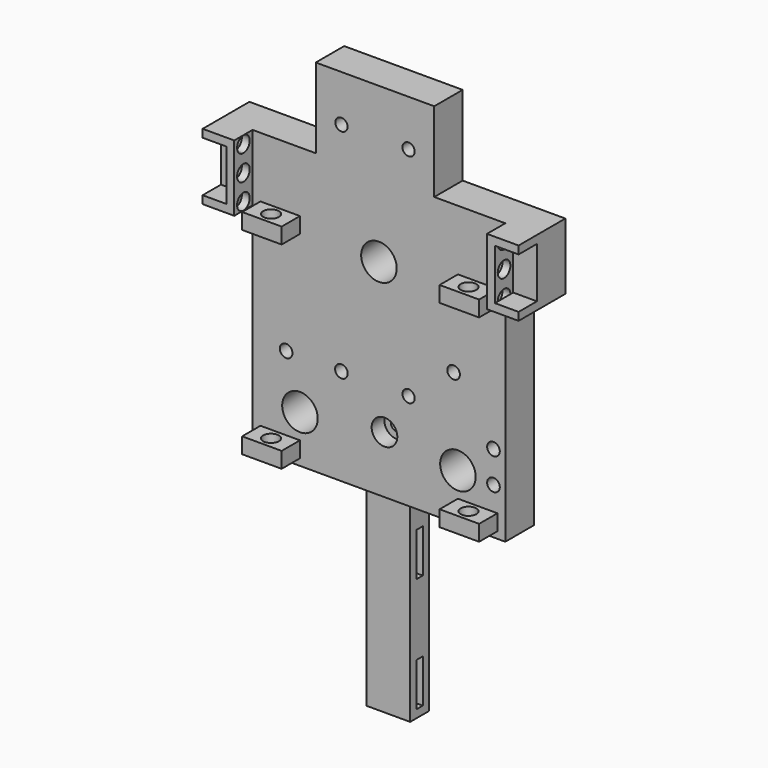
from build123d import *

# Parameters (mm, degrees)
SKETCH022_W            = 64
SKETCH022_H            = 64
PAD020_DEPTH           = 9
SKETCH023_R            = 1.6
POCKET003_DEPTH        = 9
SKETCH024_R            = 1.6
POCKET004_DEPTH        = 9
SKETCH025_R            = 3
POCKET005_DEPTH        = 5.5
SKETCH026_R            = 4.5
POCKET006_DEPTH        = 9
SKETCH030_R            = 1.55
POCKET009_DEPTH        = 9
SKETCH031_W            = 30
SKETCH031_H            = 27.227398
PAD022_DEPTH           = 9
SKETCH032_R            = 1.55
POCKET010_DEPTH        = 9
SKETCH066_W            = 16.8
SKETCH066_H            = 9
PAD040_DEPTH           = 8
PAD040_FACE8_W         = 9
PAD040_FACE8_H         = 16
PAD041_DEPTH           = 7
MIRRORED_FACE11_W      = 9
MIRRORED_FACE11_H      = 18
PAD042_DEPTH           = 7
PAD043_DEPTH           = 5.8
SKETCH068_R            = 2
POCKET027_DEPTH        = 5
LINEARPATTERN_COUNT    = 3
LINEARPATTERN_PITCH    = 6.4
SKETCH069_R            = 2
POCKET028_DEPTH        = 5
LINEARPATTERN001_COUNT = 3
LINEARPATTERN001_PITCH = 6.4
SKETCH071_W            = 10
SKETCH071_H            = 4
PAD044_DEPTH           = 5.8
SKETCH073_R            = 2
POCKET029_DEPTH        = 100
SKETCH074_W            = 11
SKETCH074_H            = 6
PAD045_DEPTH           = 50
SKETCH075_W            = 11
SKETCH075_H            = 2
POCKET030_DEPTH        = 12
SKETCH076_R            = 1.6
POCKET031_DEPTH        = 10
SKETCH083_R            = 3.25
POCKET035_DEPTH        = 4


with BuildPart() as part:
    # Sketch022 → Pad020 (new body)
    with BuildSketch(Plane.XZ):
        Rectangle(SKETCH022_W, SKETCH022_H)
    extrude(amount=PAD020_DEPTH)

    # Sketch023 (on Face5 of Pad020) → Pocket003 (cut)
    with BuildSketch(Plane(origin=(0, 0, 0), x_dir=(1, 0, 0), z_dir=(0, 1, 0))):
        with Locations((-9.5, 7.5)):
            Circle(SKETCH023_R)
        with Locations((-23.5, 7.5)):
            Circle(SKETCH023_R)
    extrude(amount=-POCKET003_DEPTH, mode=Mode.SUBTRACT)

    # Sketch024 (on Face4 of Pocket003) → Pocket004 (cut)
    with BuildSketch(Plane(origin=(0, 0, 0), x_dir=(1, 0, 0), z_dir=(0, 1, 0))):
        with Locations((1.4, 17.5)):
            Circle(SKETCH024_R)
        with Locations((18.9, -1.5)):
            Circle(SKETCH024_R)
    extrude(amount=-POCKET004_DEPTH, mode=Mode.SUBTRACT)

    # Sketch025 (on Face4 of Pocket004) → Pocket005 (cut)
    with BuildSketch(Plane(origin=(0, 0, 0), x_dir=(1, 0, 0), z_dir=(0, 1, 0))):
        with Locations((-23.5, 7.5)):
            Circle(SKETCH025_R)
        with Locations((-9.5, 7.5)):
            Circle(SKETCH025_R)
    extrude(amount=-POCKET005_DEPTH, mode=Mode.SUBTRACT)

    # Sketch026 (on Face4 of Pocket005) → Pocket006 (cut)
    with BuildSketch(Plane(origin=(0, 0, 0), x_dir=(1, 0, 0), z_dir=(0, 1, 0))):
        with Locations((0, -20)):
            Circle(SKETCH026_R)
        with Locations((20, 20)):
            Circle(SKETCH026_R)
        with Locations((-20, 20)):
            Circle(SKETCH026_R)
    extrude(amount=-POCKET006_DEPTH, mode=Mode.SUBTRACT)

    # Sketch030 (on Face5 of Pocket006) → Pocket009 (cut)
    with BuildSketch(Plane.XZ.offset(9)):
        with Locations((7.5, -7.5)):
            Circle(SKETCH030_R)
    extrude(amount=-POCKET009_DEPTH, mode=Mode.SUBTRACT)

    # Sketch031 (on Face5 of Pocket009) → Pad022 (join)
    with BuildSketch(Plane.XZ.offset(9)):
        with Locations((-1, 45.613699)):
            Rectangle(SKETCH031_W, SKETCH031_H)
    extrude(amount=-PAD022_DEPTH)

    # Sketch032 (on Face22 of Pad022) → Pocket010 (cut)
    with BuildSketch(Plane.XZ.offset(9)):
        with Locations((-9.5, 47.5)):
            Circle(SKETCH032_R)
        with Locations((7.5, 47.5)):
            Circle(SKETCH032_R)
    extrude(amount=-POCKET010_DEPTH, mode=Mode.SUBTRACT)

    # Sketch066 (on Face2 of Pocket010) → Pad040 (join)
    with BuildSketch(Plane(origin=(-32, 0, 0), x_dir=(0, 0, -1), z_dir=(-1, 0, 0))):
        with Locations((-30.6, 4.5)):
            Rectangle(SKETCH066_W, SKETCH066_H)
    pad040 = extrude(amount=PAD040_DEPTH)

    # Pad040 Face8 → Pad041 (add)
    with BuildSketch(Plane(origin=(-24, -4.5, 32), x_dir=(0, 1, 0), z_dir=(0, 0, 1))):
        Rectangle(PAD040_FACE8_W, PAD040_FACE8_H)
    extrude(amount=PAD041_DEPTH)

    # Mirrored: Pad040 across YZ
    add(pad040.mirror(Plane.YZ))

    # Mirrored Face11 → Pad042 (add)
    with BuildSketch(Plane(origin=(23, -4.5, 32), x_dir=(0, 1, 0), z_dir=(0, 0, 1))):
        Rectangle(MIRRORED_FACE11_W, MIRRORED_FACE11_H)
    extrude(amount=PAD042_DEPTH)

    # Sketch067 (on Face27 of Pad042) → Pad043 (join)
    with BuildSketch(Plane.XZ.offset(9)):
        Polygon((40, 39), (32, 39), (32, 22.2), (40, 22.2), (40, 24.2), (34, 24.2), (34, 37), (40, 37), align=None)
    pad043 = extrude(amount=PAD043_DEPTH)

    # Mirrored001: Pad043 across YZ
    add(pad043.mirror(Plane.YZ))

    # Sketch068 (on Face37 of Mirrored001) → Pocket027 (cut)
    with BuildSketch(Plane(origin=(-34, 0, 0), x_dir=(0, 0, -1), z_dir=(-1, 0, 0))):
        with Locations((-24.2, 11.9)):
            Circle(SKETCH068_R)
    pocket027 = extrude(amount=-POCKET027_DEPTH, mode=Mode.SUBTRACT)

    # LinearPattern: Pocket027 ×3
    with Locations(*[(0, 0, i * LINEARPATTERN_PITCH) for i in range(1, LINEARPATTERN_COUNT)]):
        add(pocket027, mode=Mode.SUBTRACT)

    # Sketch069 (on Face44 of LinearPattern) → Pocket028 (cut)
    with BuildSketch(Plane(origin=(34, 0, 0), x_dir=(0, 0, 1), z_dir=(1, 0, 0))):
        with Locations((37, 11.9)):
            Circle(SKETCH069_R)
    pocket028 = extrude(amount=-POCKET028_DEPTH, mode=Mode.SUBTRACT)

    # LinearPattern001: Pocket028 ×3
    with Locations(*[(0, 0, -i * LINEARPATTERN001_PITCH) for i in range(1, LINEARPATTERN001_COUNT)]):
        add(pocket028, mode=Mode.SUBTRACT)

    # Sketch071 (on Face35 of LinearPattern001) → Pad044 (join)
    with BuildSketch(Plane.XZ.offset(9)):
        with Locations((25, 21.7)):
            Rectangle(SKETCH071_W, SKETCH071_H)
        with Locations((25, -28.3)):
            Rectangle(SKETCH071_W, SKETCH071_H)
    pad044 = extrude(amount=PAD044_DEPTH)

    # Mirrored003: Pad044 across Sketch071 V_Axis
    add(pad044.mirror(Plane(origin=(0, -9, 0), x_dir=(0, -1, 0), z_dir=(1, 0, 0))))

    # Sketch073 (on Face49 of Mirrored003) → Pocket029 (cut)
    with BuildSketch(Plane(origin=(0, 0, 23.7), x_dir=(-1, 0, 0), z_dir=(0, 0, 1))):
        with Locations((-25, 11.9)):
            Circle(SKETCH073_R)
    pocket029 = extrude(amount=-POCKET029_DEPTH, mode=Mode.SUBTRACT)

    # Mirrored004: Pocket029 across YZ
    add(pocket029.mirror(Plane.YZ), mode=Mode.SUBTRACT)

    # Sketch074 (on Face15 of Mirrored004) → Pad045 (join)
    with BuildSketch(Plane(origin=(0, 0, -32), x_dir=(1, 0, 0), z_dir=(0, 0, -1))):
        with Locations((0, 3)):
            Rectangle(SKETCH074_W, SKETCH074_H)
    extrude(amount=PAD045_DEPTH)

    # Sketch075 (on Face41 of Pad045) → Pocket030 (cut)
    with BuildSketch(Plane(origin=(5.5, 0, 0), x_dir=(0, 0, 1), z_dir=(1, 0, 0))):
        with Locations((-74.5, 3)):
            Rectangle(SKETCH075_W, SKETCH075_H)
        with Locations((-45.5, 3)):
            Rectangle(SKETCH075_W, SKETCH075_H)
    extrude(amount=-POCKET030_DEPTH, mode=Mode.SUBTRACT)

    # Sketch076 (on Face30 of Pocket030) → Pocket031 (cut)
    with BuildSketch(Plane.XZ.offset(9)):
        with Locations((29, -12.3)):
            Circle(SKETCH076_R)
        with Locations((29, -20.3)):
            Circle(SKETCH076_R)
    extrude(amount=-POCKET031_DEPTH, mode=Mode.SUBTRACT)

    # Sketch083 (on Face32 of Pocket031) → Pocket035 (cut)
    with BuildSketch(Plane.XZ.offset(9)):
        with Locations((1.4, -17.5)):
            Circle(SKETCH083_R)
    extrude(amount=-POCKET035_DEPTH, mode=Mode.SUBTRACT)


solid = part.part
